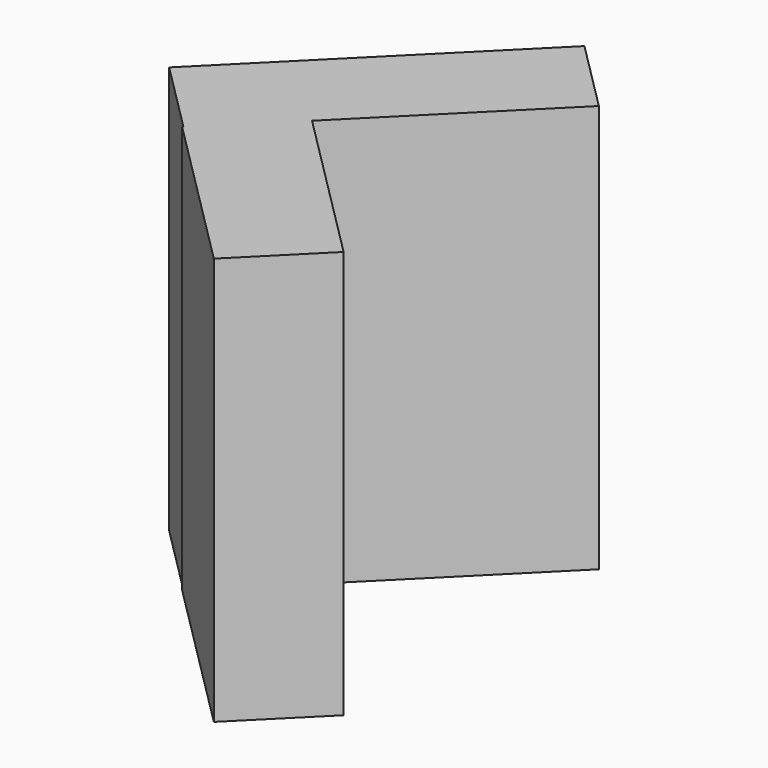
from build123d import *

# Parameters (mm, degrees)
BOX007_W                  = 0.05
BOX007_H                  = 0.11
BOX007_DEPTH              = 0.2
BOX007_PLACEMENT_ANGLE    = -45
BOX006_W                  = 0.05
BOX006_H                  = 0.16
BOX006_DEPTH              = 0.2
BOX006_PLACEMENT_ANGLE    = 45
FUSION003_PLACEMENT_ANGLE = -90


with BuildPart() as kub007:
    # Box007 → Box007 (new body)
    with BuildSketch(Plane.XY):
        with Locations((0.025, 0.055)):
            Rectangle(BOX007_W, BOX007_H)
    extrude(amount=BOX007_DEPTH)


with BuildPart() as kub007_1:
    # Box007 placement: moved
    add(kub007.part.moved(Location((0, 1.97, 0))).rotate(Axis((0, 1.97, 0), (0, 0, 1)), BOX007_PLACEMENT_ANGLE))


with BuildPart() as fusion003:
    # Box006 → Box006 (new body)
    with BuildSketch(Plane.XY):
        with Locations((0.025, 0.08)):
            Rectangle(BOX006_W, BOX006_H)
    extrude(amount=BOX006_DEPTH)


with BuildPart() as fusion003_1:
    # Box006 placement: moved
    add(fusion003.part.moved(Location((0, 1.9, 0))).rotate(Axis((0, 1.9, 0), (0, 0, 1)), BOX006_PLACEMENT_ANGLE))

    # Fusion003: union Kub007
    add(kub007_1.part)


with BuildPart() as fusion003_2:
    # Fusion003 placement: moved
    add(fusion003_1.part.rotate(Axis((0, 0, 0), (0, 0, 1)), FUSION003_PLACEMENT_ANGLE))


solid = fusion003_2.part
